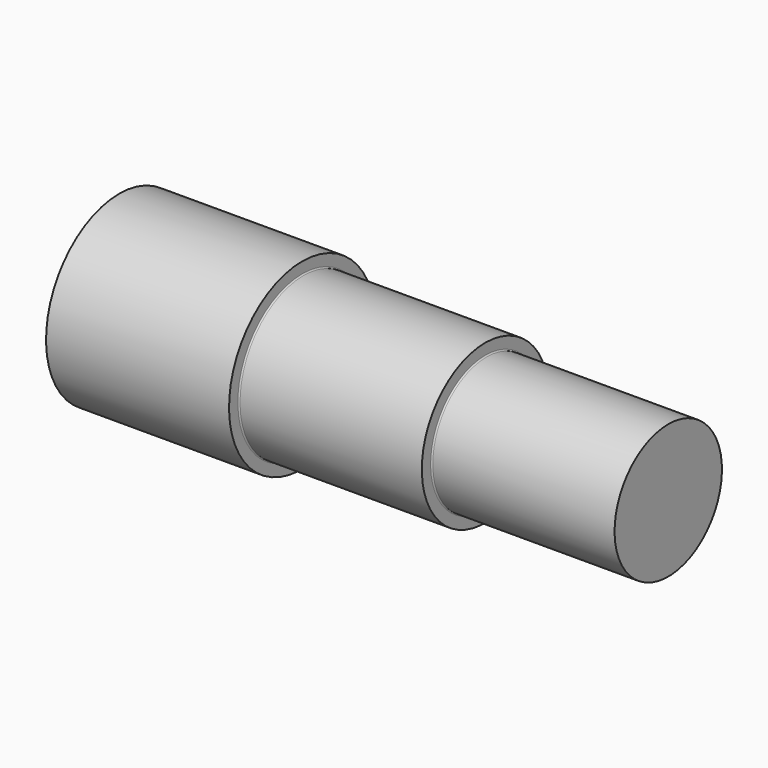
from build123d import *


with BuildPart() as f1:
    # F0 (on Front) → F1 (revolve)
    with BuildSketch(Plane.XZ):
        with BuildLine():
            Line((-90, 0), (0, 0))
            Line((0, 0), (0, 11))
            Line((0, 11), (-29.797502, 11))
            ThreePointArc((-29.797502, 11), (-29.94069, 11.05931), (-30, 11.202498))
            Line((-30, 11.202498), (-30, 13))
            Line((-30, 13), (-59.797502, 13))
            ThreePointArc((-59.797502, 13), (-59.94069, 13.05931), (-60, 13.202498))
            Line((-60, 13.202498), (-60, 15))
            Line((-60, 15), (-90, 15))
            Line((-90, 15), (-90, 0))
        make_face()
    revolve(axis=Axis((-45, 0, 0), (1, 0, 0)))


solid = f1.part
